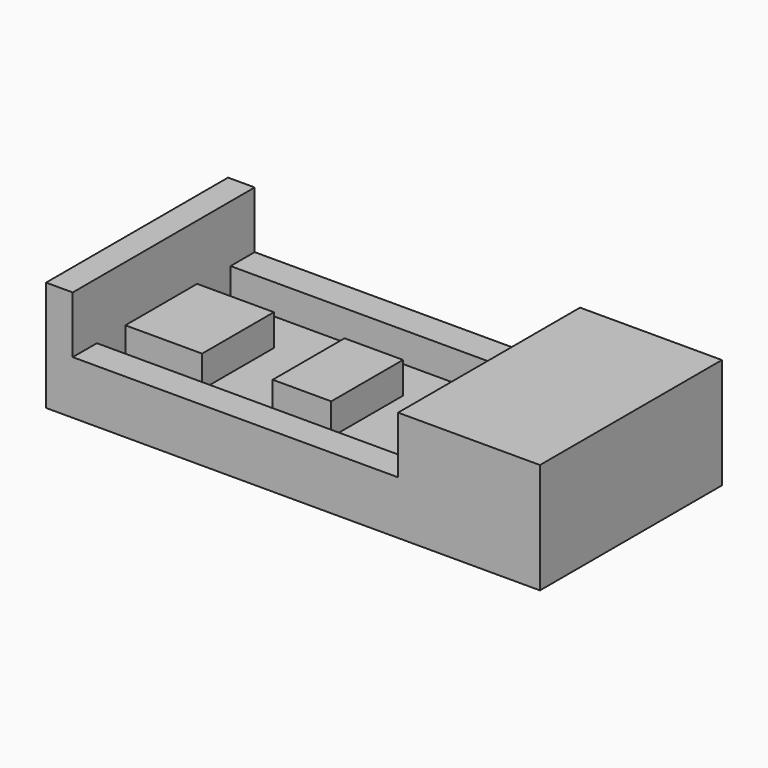
from build123d import *

# Parameters (mm, degrees)
F0_W     = 192.0494
F0_H     = 88.4428
F1_DEPTH = 42.926
F2_W     = 126.5174
F2_H     = 88.4428
F3_DEPTH = 22.1488
F4_W     = 126.5174
F4_H     = 64.9732
F5_DEPTH = 11.7348
F6_W     = 29.845
F6_H     = 34.8996
F6_W_2   = 22.7584
F6_W_3   = 18.2626
F7_DEPTH = 12.2428


with BuildPart() as f1:
    # F0 (on Top) → F1 (new body)
    with BuildSketch(Plane.XY):
        with Locations((96.0247, 44.2214)):
            Rectangle(F0_W, F0_H)
    extrude(amount=F1_DEPTH)

    # F2 (on face) → F3 (cut)
    with BuildSketch(Plane.XY.offset(42.926)):
        with Locations((73.6219, 44.2214)):
            Rectangle(F2_W, F2_H)
    extrude(amount=-F3_DEPTH, mode=Mode.SUBTRACT)

    # F4 (on face) → F5 (cut)
    with BuildSketch(Plane.XY.offset(20.7772)):
        with Locations((73.6219, 44.2214)):
            Rectangle(F4_W, F4_H)
    extrude(amount=-F5_DEPTH, mode=Mode.SUBTRACT)

    # F6 (on face) → F7 (join)
    with BuildSketch(Plane.XY.offset(9.0424)):
        with Locations((25.2857, 43.0276)):
            Rectangle(F6_W, F6_H)
        with Locations((79.0448, 43.0276)):
            Rectangle(F6_W_2, F6_H)
        with Locations((127.7493, 43.0276)):
            Rectangle(F6_W_3, F6_H)
    extrude(amount=F7_DEPTH)


solid = f1.part
